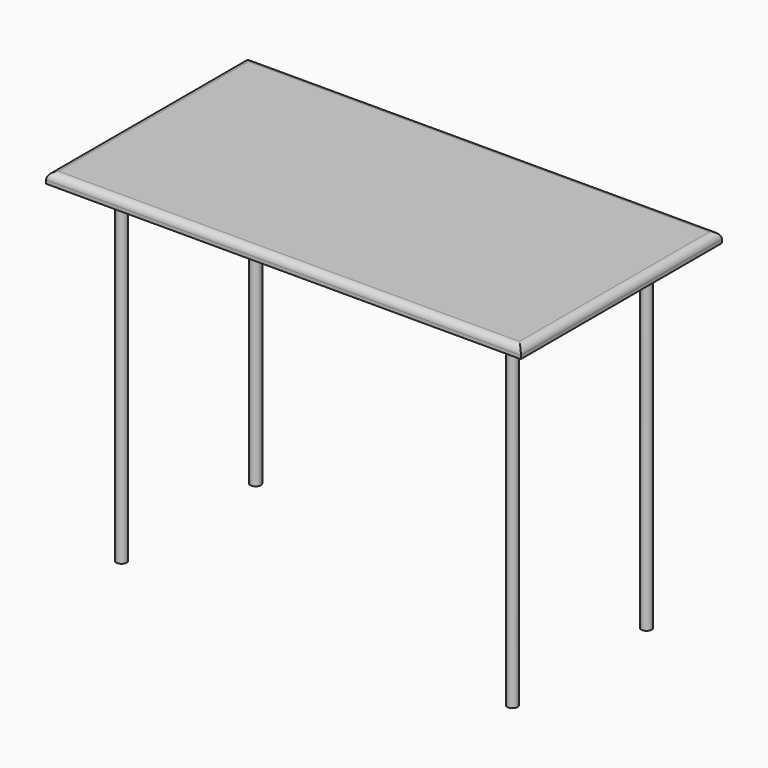
from build123d import *

# Parameters (mm, degrees)
F0_R     = 9.525
F1_DEPTH = 609.6
F2_W     = 863.6
F2_H     = 457.2
F2_R     = 9.525
F3_DEPTH = 19.05
F4_R     = 12.7


with BuildPart() as f1:
    # F0 (on Top) → F1 (new body)
    with BuildSketch(Plane.XY):
        with Locations((9.933765, 11.337449)):
            Circle(F0_R)
        with Locations((9.933765, 316.137449)):
            Circle(F0_R)
        with Locations((721.133765, 11.337449)):
            Circle(F0_R)
        with Locations((721.133765, 316.137449)):
            Circle(F0_R)
    extrude(amount=F1_DEPTH)

    # F2 (on face) → F3 (join)
    with BuildSketch(Plane.XY.offset(609.6)):
        with Locations((365.305165, 163.966049)):
            Rectangle(F2_W, F2_H)
        with Locations((9.933765, 11.337449)):
            Circle(F2_R, mode=Mode.SUBTRACT)
        with Locations((9.933765, 11.337449)):
            Circle(F2_R)
    extrude(amount=F3_DEPTH)

    # F4
    f4_edges = [f1.edges().sort_by_distance(p)[0] for p in [
        (797.105165, 163.966049, 628.65),
        (365.305165, 392.566049, 628.65),
        (-66.494835, 163.966049, 628.65),
        (365.305165, -64.633951, 628.65),
    ]]
    fillet(f4_edges, radius=F4_R)


solid = f1.part
